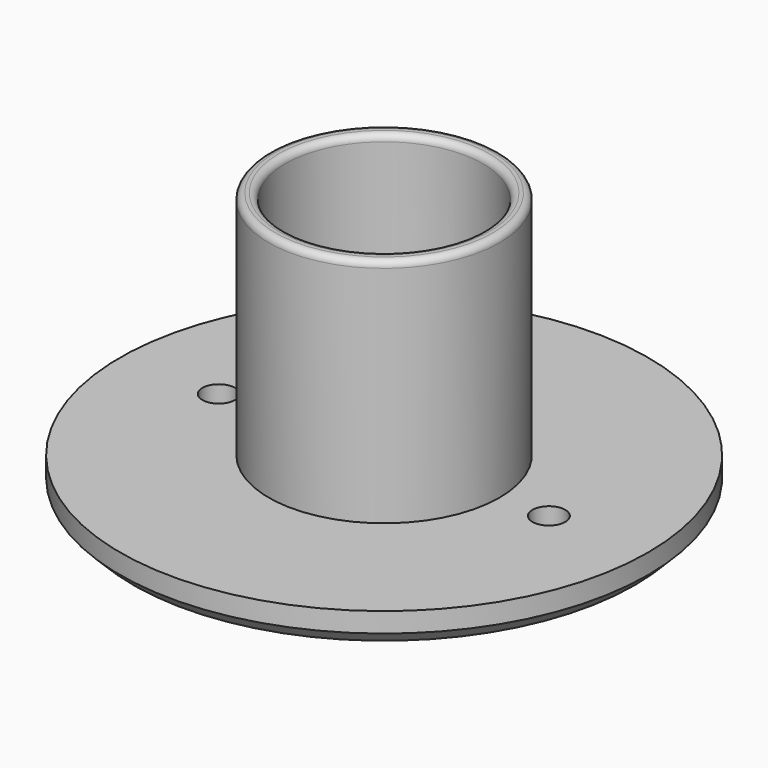
from build123d import *

# Parameters (mm, degrees)
F0_R     = 25.4
F0_R_2   = 1.5785092345
F1_DEPTH = 3.175
F2_DEPTH = 25.4
F3_R     = 0.635
F4_DEPTH = 25.4
F5_SIZE  = 1.27
F6_R     = 0.635


with BuildPart() as f1:
    # F0 (on Top) → F1 (new body)
    with BuildSketch(Plane.XY):
        Circle(F0_R)
        with Locations((-15.9070281119, 0)):
            Circle(F0_R_2, mode=Mode.SUBTRACT)
        with BuildLine():
            ThreePointArc((-11.1093761475, 0), (0, 11.1093761475), (11.1093761475, 0))
            ThreePointArc((11.1093761475, 0), (0, -11.1093761475), (-11.1093761475, 0))
        make_face(mode=Mode.SUBTRACT)
        with BuildLine():
            ThreePointArc((17.4326761663, 0), (15.8555379837, -1.5771381826), (14.2783998011, 0))
            ThreePointArc((14.2783998011, 0), (15.8555379837, 1.5771381826), (17.4326761663, 0))
        make_face(mode=Mode.SUBTRACT)
        with BuildLine():
            Line((0, 0), (9.5014704661, 0))
            ThreePointArc((9.5014704661, 0), (0, 9.5014704661), (-9.5014704661, 0))
            Line((-9.5014704661, 0), (0, 0))
        make_face()
        with BuildLine():
            ThreePointArc((-9.5014704661, 0), (0, -9.5014704661), (9.5014704661, 0))
            Line((9.5014704661, 0), (0, 0))
            Line((0, 0), (-9.5014704661, 0))
        make_face()
        with BuildLine():
            ThreePointArc((-9.5014704661, 0), (0, 9.5014704661), (9.5014704661, 0))
            Line((9.5014704661, 0), (11.1093761475, 0))
            ThreePointArc((11.1093761475, 0), (0, 11.1093761475), (-11.1093761475, 0))
            Line((-11.1093761475, 0), (-9.5014704661, 0))
        make_face()
        with BuildLine():
            Line((11.1093761475, 0), (9.5014704661, 0))
            ThreePointArc((9.5014704661, 0), (0, -9.5014704661), (-9.5014704661, 0))
            Line((-9.5014704661, 0), (-11.1093761475, 0))
            ThreePointArc((-11.1093761475, 0), (0, -11.1093761475), (11.1093761475, 0))
        make_face()
    extrude(amount=F1_DEPTH)

    # F0 (on Top) → F2 (join)
    with BuildSketch(Plane.XY):
        with BuildLine():
            Line((11.1093761475, 0), (9.5014704661, 0))
            ThreePointArc((9.5014704661, 0), (0, -9.5014704661), (-9.5014704661, 0))
            Line((-9.5014704661, 0), (-11.1093761475, 0))
            ThreePointArc((-11.1093761475, 0), (0, -11.1093761475), (11.1093761475, 0))
        make_face()
        with BuildLine():
            ThreePointArc((-9.5014704661, 0), (0, 9.5014704661), (9.5014704661, 0))
            Line((9.5014704661, 0), (11.1093761475, 0))
            ThreePointArc((11.1093761475, 0), (0, 11.1093761475), (-11.1093761475, 0))
            Line((-11.1093761475, 0), (-9.5014704661, 0))
        make_face()
    extrude(amount=F2_DEPTH)

    # F3 (on Front) → F4 (cut)
    with BuildSketch(Plane.XZ):
        with Locations((0, 5.5941580795)):
            Circle(F3_R)
    extrude(amount=-F4_DEPTH, mode=Mode.SUBTRACT)

    # F5
    f5_edges = [f1.edges().sort_by_distance(p)[0] for p in [
        (-25.4, 0, 0),
    ]]
    chamfer(f5_edges, length=F5_SIZE)

    # F6
    f6_edges = [f1.edges().sort_by_distance(p)[0] for p in [
        (-11.109376, 0, 25.4),
        (9.50147, 0, 25.4),
    ]]
    fillet(f6_edges, radius=F6_R)


solid = f1.part
